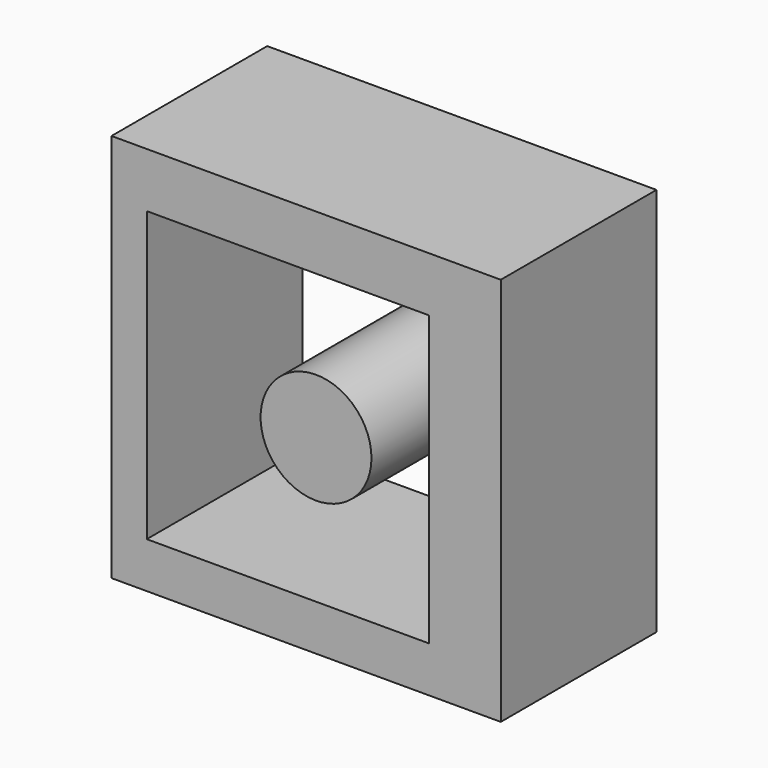
from build123d import *

# Parameters (mm, degrees)
F0_W     = 50.8
F0_H     = 50.8
F0_W_2   = 36.813344
F0_H_2   = 37.690434
F0_R     = 7.233706
F1_DEPTH = 25.4


with BuildPart() as f1:
    # F0 (on Front) → F1 (new body)
    with BuildSketch(Plane.XZ):
        with Locations((25.4, 25.4)):
            Rectangle(F0_W, F0_H)
        with Locations((23.008345, 24.818531)):
            Rectangle(F0_W_2, F0_H_2, mode=Mode.SUBTRACT)
        with Locations((26.68968, 24.818531)):
            Circle(F0_R)
    extrude(amount=F1_DEPTH)


solid = f1.part
